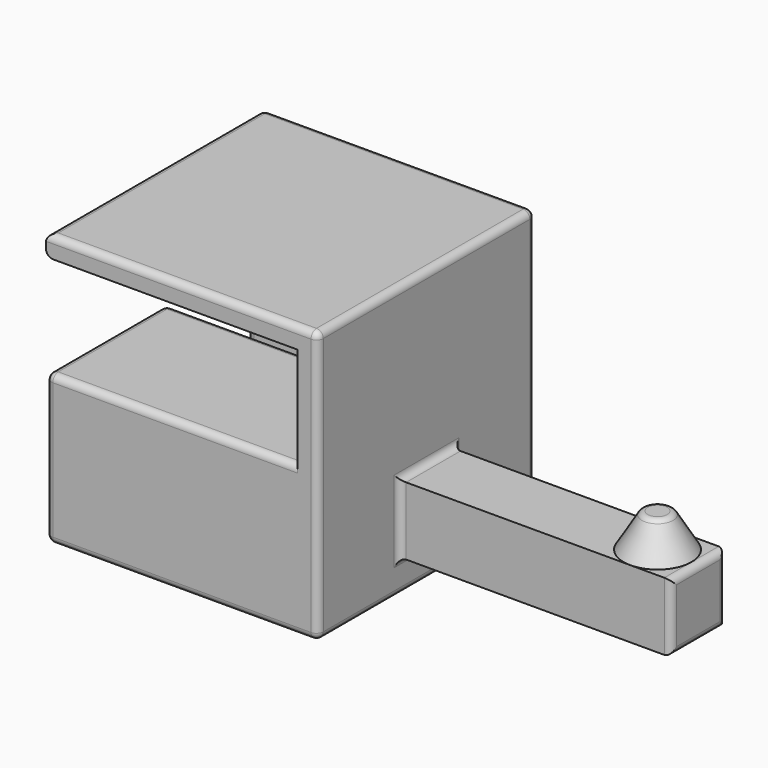
from build123d import *

# Parameters (mm, degrees)
FILLET008_R               = 1
BOX003_W                  = 40
BOX003_H                  = 10
BOX003_DEPTH              = 10
FILLET007_R               = 1
BOX002_W                  = 39
BOX002_H                  = 15
BOX002_DEPTH              = 37
BOX001_W                  = 39
BOX001_H                  = 39
BOX001_DEPTH              = 15
BOX_W                     = 40
BOX_H                     = 40
BOX_DEPTH                 = 40
FILLET_R                  = 1
FILLET001_R               = 1
FILLET002_R               = 1
FILLET003_R               = 1
FILLET004_R               = 1
FILLET005_R               = 1
FILLET006_R               = 1
FILLET006_PLACEMENT_ANGLE = 180
FILLET009_R               = 1
FILLET010_R               = 1
FILLET011_R               = 1
FILLET012_R               = 1


with BuildPart() as fillet008:
    # Cone → Cone (revolve)
    with BuildSketch(Plane(origin=(35, -20, 15), x_dir=(1, 0, 0), z_dir=(0, -1, 0))):
        Polygon((0, 0), (5, 0), (2, 5), (0, 5), align=None)
    revolve(axis=Axis((35, -20, 15), (0, 0, 1)))

    # Fillet008
    fillet008_edges = [fillet008.edges().sort_by_distance(p)[0] for p in [
        (33, -20, 20),
    ]]
    fillet(fillet008_edges, radius=FILLET008_R)


with BuildPart() as fillet008_1:
    # Fillet008 placement: moved
    add(fillet008.part.moved(Location((-1, 0, 0))))


with BuildPart() as fillet007:
    # Box003 → Box003 (new body)
    with BuildSketch(Plane(origin=(0, -25, 5), x_dir=(1, 0, 0), z_dir=(0, 0, 1))):
        with Locations((20, 5)):
            Rectangle(BOX003_W, BOX003_H)
    extrude(amount=BOX003_DEPTH)

    # Fillet007
    fillet007_edges = [fillet007.edges().sort_by_distance(p)[0] for p in [
        (40, -25, 10),
        (40, -20, 15),
        (40, -15, 10),
        (40, -20, 5),
    ]]
    fillet(fillet007_edges, radius=FILLET007_R)


with BuildPart() as cube002:
    # Box002 → Box002 (new body)
    with BuildSketch(Plane(origin=(3, 3, 0), x_dir=(1, 0, 0), z_dir=(0, 0, 1))):
        with Locations((19.5, 7.5)):
            Rectangle(BOX002_W, BOX002_H)
    extrude(amount=BOX002_DEPTH)


with BuildPart() as cube001:
    # Box001 → Box001 (new body)
    with BuildSketch(Plane(origin=(3, 2, 22), x_dir=(1, 0, 0), z_dir=(0, 0, 1))):
        with Locations((19.5, 19.5)):
            Rectangle(BOX001_W, BOX001_H)
    extrude(amount=BOX001_DEPTH)


with BuildPart() as fusion001:
    # Box → Box (new body)
    with BuildSketch(Plane.XY):
        with Locations((20, 20)):
            Rectangle(BOX_W, BOX_H)
    extrude(amount=BOX_DEPTH)

    # Cut: cut Cube001
    add(cube001.part, mode=Mode.SUBTRACT)

    # Cut001: cut Cube002
    add(cube002.part, mode=Mode.SUBTRACT)

    # Fillet
    fillet_edges = [fusion001.edges().sort_by_distance(p)[0] for p in [
        (21.5, 18, 22),
    ]]
    fillet(fillet_edges, radius=FILLET_R)

    # Fillet001
    fillet001_edges = [fusion001.edges().sort_by_distance(p)[0] for p in [
        (21.5, 18, 0),
    ]]
    fillet(fillet001_edges, radius=FILLET001_R)

    # Fillet002
    fillet002_edges = [fusion001.edges().sort_by_distance(p)[0] for p in [
        (20, 40, 0),
        (21.5, 40, 22),
    ]]
    fillet(fillet002_edges, radius=FILLET002_R)

    # Fillet003
    fillet003_edges = [fusion001.edges().sort_by_distance(p)[0] for p in [
        (20, 0, 0),
        (0, 40, 20.5),
        (20, 40, 40),
        (0, 20, 40),
        (0, 0, 20),
        (40, 0, 20),
        (20, 0, 40),
        (40, 20, 40),
    ]]
    fillet(fillet003_edges, radius=FILLET003_R)

    # Fillet004
    fillet004_edges = [fusion001.edges().sort_by_distance(p)[0] for p in [
        (40, 3, 11),
    ]]
    fillet(fillet004_edges, radius=FILLET004_R)

    # Fillet005
    fillet005_edges = [fusion001.edges().sort_by_distance(p)[0] for p in [
        (40, 21, 37),
    ]]
    fillet(fillet005_edges, radius=FILLET005_R)

    # Fillet006
    fillet006_edges = [fusion001.edges().sort_by_distance(p)[0] for p in [
        (40, 40, 11),
        (40, 29, 0),
        (40, 29, 22),
        (40, 18, 11),
    ]]
    fillet(fillet006_edges, radius=FILLET006_R)


with BuildPart() as fusion001_1:
    # Fillet006 placement: moved
    add(fusion001.part.rotate(Axis((0, 0, 0), (0, 0, 1)), FILLET006_PLACEMENT_ANGLE))

    # Fusion: union Fillet007
    add(fillet007.part)

    # Fillet009
    fillet009_edges = [fusion001_1.edges().sort_by_distance(p)[0] for p in [
        (0, -20, 15),
    ]]
    fillet(fillet009_edges, radius=FILLET009_R)

    # Fillet010
    fillet010_edges = [fusion001_1.edges().sort_by_distance(p)[0] for p in [
        (0, -15, 10),
    ]]
    fillet(fillet010_edges, radius=FILLET010_R)

    # Fillet011
    fillet011_edges = [fusion001_1.edges().sort_by_distance(p)[0] for p in [
        (0, -25, 10),
    ]]
    fillet(fillet011_edges, radius=FILLET011_R)

    # Fillet012
    fillet012_edges = [fusion001_1.edges().sort_by_distance(p)[0] for p in [
        (0, -20, 5),
    ]]
    fillet(fillet012_edges, radius=FILLET012_R)

    # Fusion001: union Fillet008
    add(fillet008_1.part)


solid = fusion001_1.part
